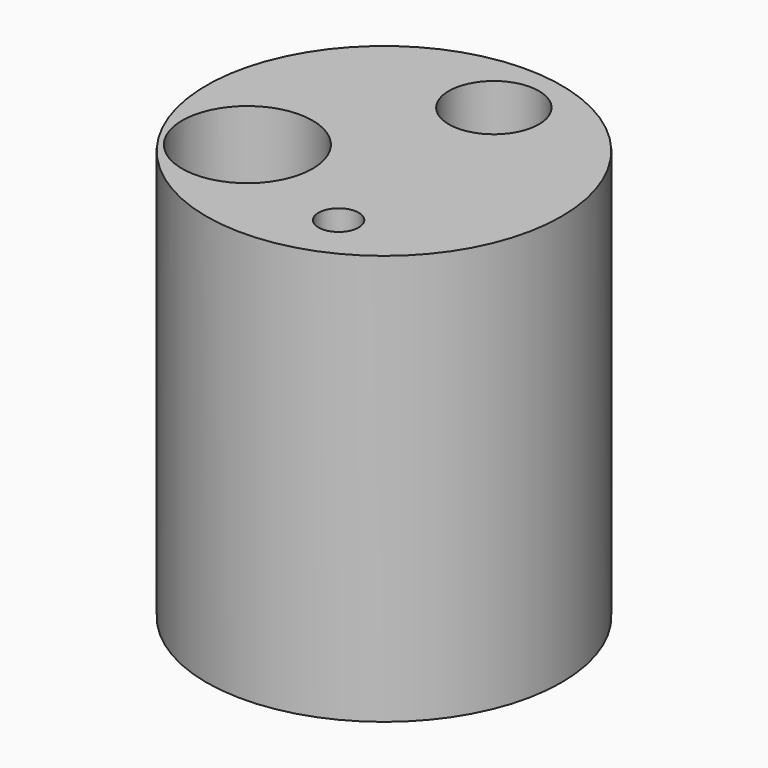
from build123d import *

# Parameters (mm, degrees)
F0_R     = 6.490214
F0_R_2   = 2.385972
F0_R_3   = 0.733533
F0_R_4   = 1.649177
F1_DEPTH = 15


with BuildPart() as f1:
    # F0 (on Top) → F1 (new body)
    with BuildSketch(Plane.XY):
        Circle(F0_R)
        with Locations((-3.290398, -2.131866)):
            Circle(F0_R_2, mode=Mode.SUBTRACT)
        with Locations((1.660772, -4.149665)):
            Circle(F0_R_3, mode=Mode.SUBTRACT)
        with Locations((0.777488, 4.049078)):
            Circle(F0_R_4, mode=Mode.SUBTRACT)
    extrude(amount=F1_DEPTH)


solid = f1.part
